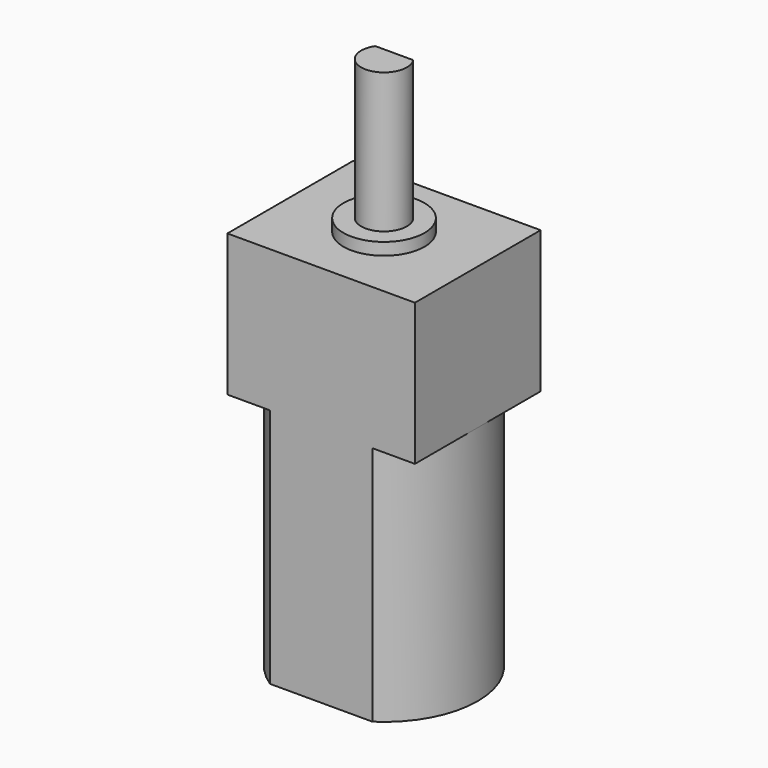
from build123d import *

# Parameters (mm, degrees)
BOX003_W               = 3.325
BOX003_H               = 3.325
BOX003_DEPTH           = 19.325
CYLINDER002_R          = 1.5
CYLINDER002_DEPTH      = 19.325
BOX005_W               = 0.455
BOX005_H               = 2.325
BOX005_DEPTH           = 16.625
BOX004_W               = 0.455
BOX004_H               = 2.325
BOX004_DEPTH           = 16.625
CYLINDER001_R          = 2.6625
CYLINDER001_DEPTH      = 26.75
CYLINDER_R             = 6.1625
CYLINDER_DEPTH         = 15.825
BOX_W                  = 12.325
BOX_H                  = 10.325
BOX_DEPTH              = 15.825
BOX002_W               = 12.325
BOX002_H               = 10.325
BOX002_DEPTH           = 9.325
FUSION_PLACEMENT_ANGLE = 180


with BuildPart() as cube003:
    # Box003 → Box003 (new body)
    with BuildSketch(Plane(origin=(-1.6625, 0.8375, 0), x_dir=(1, 0, 0), z_dir=(0, 0, 1))):
        with Locations((1.6625, 1.6625)):
            Rectangle(BOX003_W, BOX003_H)
    extrude(amount=BOX003_DEPTH)


with BuildPart() as shaft:
    # Cylinder002 → Cylinder002 (new body)
    with BuildSketch(Plane.XY):
        Circle(CYLINDER002_R)
    extrude(amount=CYLINDER002_DEPTH)

    # Cut: cut Cube003
    add(cube003.part, mode=Mode.SUBTRACT)


with BuildPart() as cube005:
    # Box005 → Box005 (new body)
    with BuildSketch(Plane(origin=(-3.4775, -1.1625, -16.625), x_dir=(1, 0, 0), z_dir=(0, 0, 1))):
        with Locations((0.2275, 1.1625)):
            Rectangle(BOX005_W, BOX005_H)
    extrude(amount=BOX005_DEPTH)


with BuildPart() as contacts:
    # Box004 → Box004 (new body)
    with BuildSketch(Plane(origin=(3.0225, -1.1625, -16.625), x_dir=(1, 0, 0), z_dir=(0, 0, 1))):
        with Locations((0.2275, 1.1625)):
            Rectangle(BOX004_W, BOX004_H)
    extrude(amount=BOX004_DEPTH)

    # Fusion001: union Cube005
    add(cube005.part)


with BuildPart() as cylinder001:
    # Cylinder001 → Cylinder001 (new body)
    with BuildSketch(Plane.XY.offset(-10.125)):
        Circle(CYLINDER001_R)
    extrude(amount=CYLINDER001_DEPTH)


with BuildPart() as cylinder:
    # Cylinder → Cylinder (new body)
    with BuildSketch(Plane.XY):
        Circle(CYLINDER_R)
    extrude(amount=CYLINDER_DEPTH)


with BuildPart() as common:
    # Box → Box (new body)
    with BuildSketch(Plane(origin=(-6.1625, -5.1625, 0), x_dir=(1, 0, 0), z_dir=(0, 0, 1))):
        with Locations((6.1625, 5.1625)):
            Rectangle(BOX_W, BOX_H)
    extrude(amount=BOX_DEPTH)

    # Common: intersect Cylinder
    add(cylinder.part, mode=Mode.INTERSECT)


with BuildPart() as n20gearedmotor:
    # Box002 → Box002 (new body)
    with BuildSketch(Plane(origin=(-6.1625, -5.1625, -9.325), x_dir=(1, 0, 0), z_dir=(0, 0, 1))):
        with Locations((6.1625, 5.1625)):
            Rectangle(BOX002_W, BOX002_H)
    extrude(amount=BOX002_DEPTH)

    # Fusion: union Cylinder001, Common
    add(cylinder001.part)
    add(common.part)


with BuildPart() as n20gearedmotor_1:
    # Fusion placement: moved
    add(n20gearedmotor.part.rotate(Axis((0, 0, 0), (1, 0, 0)), FUSION_PLACEMENT_ANGLE))

    # Fusion002: union Shaft, Contacts
    add(shaft.part)
    add(contacts.part)


solid = n20gearedmotor_1.part
